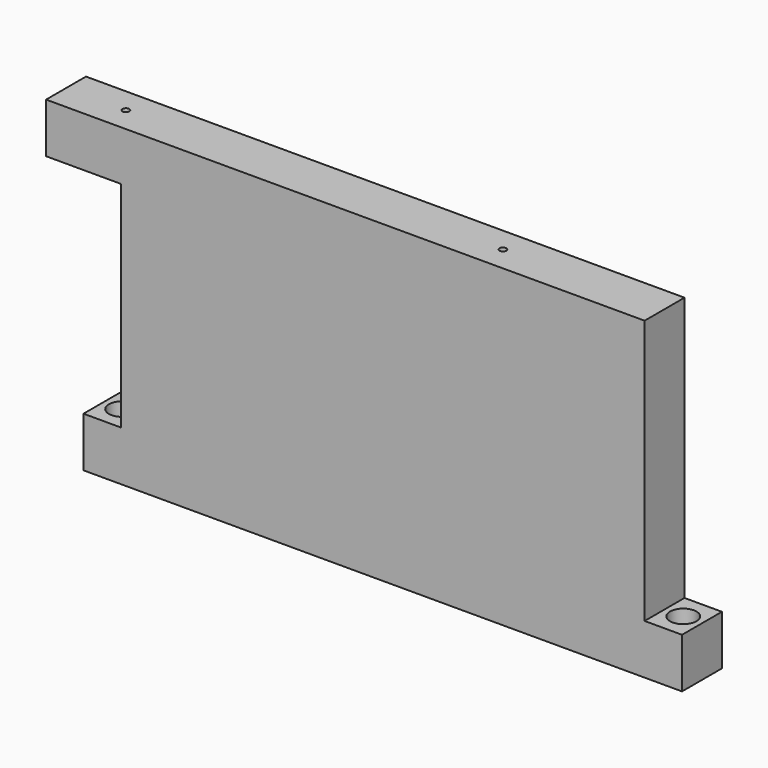
from build123d import *

# Parameters (mm, degrees)
F0_W      = 304.8
F0_H      = 25.4
F1_DEPTH  = 160.02
F2_W      = 19.05
F2_H      = 25.4
F3_DEPTH  = 134.62
F4_R      = 3.970807
F4_R_2    = 4.064
F5_DEPTH  = 25.401
F4_R_3    = 6.731
F6_DEPTH  = 12.7
F7_W      = 25.4
F7_H      = 25.4
F8_DEPTH  = 38.1
F9_R      = 1.7272
F10_DEPTH = 19.05


with BuildPart() as f1:
    # F0 (on Top) → F1 (new body)
    with BuildSketch(Plane.XY):
        Rectangle(F0_W, F0_H)
    extrude(amount=F1_DEPTH)

    # F2 (on face) → F3 (cut)
    with BuildSketch(Plane.XY.offset(160.02)):
        with Locations((-142.875, 0)):
            Rectangle(F2_W, F2_H)
        with Locations((142.875, 0)):
            Rectangle(F2_W, F2_H)
    extrude(amount=-F3_DEPTH, mode=Mode.SUBTRACT)

    # F4 (on face) → F5 (cut, through all)
    with BuildSketch(Plane.XY.offset(25.4)):
        with Locations((142.875, 0)):
            Circle(F4_R)
        with Locations((-142.875, 0)):
            Circle(F4_R_2)
    extrude(amount=-F5_DEPTH, mode=Mode.SUBTRACT)

    # F4 (on face) → F6 (cut)
    with BuildSketch(Plane.XY.offset(25.4)):
        with Locations((-142.875, 0)):
            Circle(F4_R_3)
        with Locations((-142.875, 0)):
            Circle(F4_R_2, mode=Mode.SUBTRACT)
        with Locations((142.875, 0)):
            Circle(F4_R_3)
        with Locations((142.875, 0)):
            Circle(F4_R, mode=Mode.SUBTRACT)
    extrude(amount=-F6_DEPTH, mode=Mode.SUBTRACT)

    # F7 (on face) → F8 (join)
    with BuildSketch(Plane(origin=(-133.35, 0, 0), x_dir=(0, -1, 0), z_dir=(-1, 0, 0))):
        with Locations((0, 147.32)):
            Rectangle(F7_W, F7_H)
    extrude(amount=F8_DEPTH)

    # F9 (on face) → F10 (cut)
    with BuildSketch(Plane.XY.offset(160.02)):
        with Locations((-140.95, 0)):
            Circle(F9_R)
        with Locations((51.05, 0)):
            Circle(F9_R)
    extrude(amount=-F10_DEPTH, mode=Mode.SUBTRACT)


solid = f1.part
